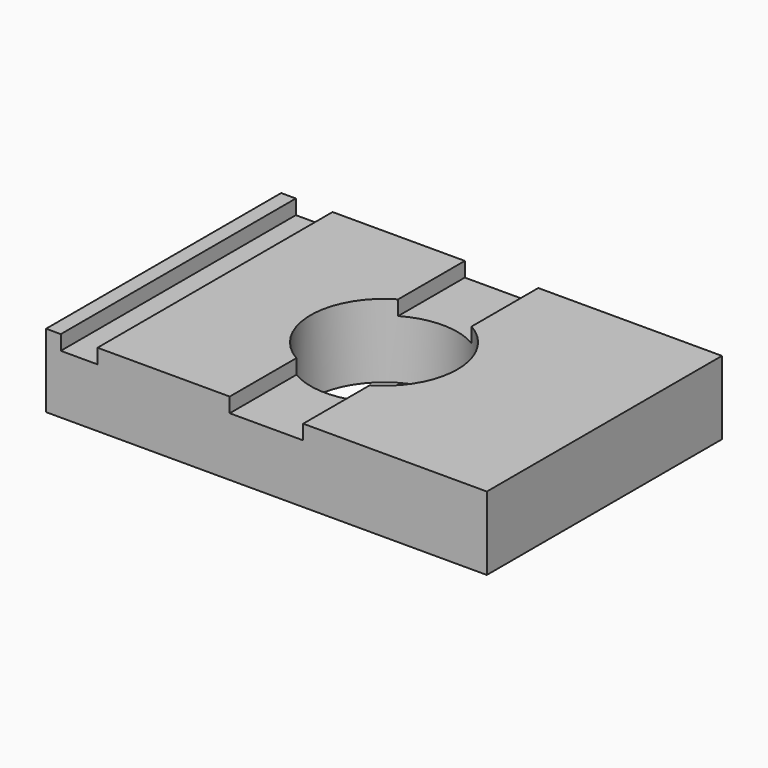
from build123d import *

# Parameters (mm, degrees)
F0_W     = 76.2
F0_H     = 50.8
F0_R     = 12.7
F1_DEPTH = 12.7
F2_W     = 6.35
F2_H     = 50.8
F3_DEPTH = 2.54


with BuildPart() as f1:
    # F0 (on Top) → F1 (new body)
    with BuildSketch(Plane.XY):
        Rectangle(F0_W, F0_H)
        Circle(F0_R, mode=Mode.SUBTRACT)
    extrude(amount=F1_DEPTH)

    # F2 (on face) → F3 (cut)
    with BuildSketch(Plane.XY.offset(12.7)):
        with Locations((-32.385, 0)):
            Rectangle(F2_W, F2_H)
        with BuildLine():
            Line((6.35, 25.4), (-6.35, 25.4))
            Line((-6.35, 25.4), (-6.35, 10.9985226281))
            ThreePointArc((-6.35, 10.9985226281), (0, 12.7), (6.35, 10.9985226281))
            Line((6.35, 10.9985226281), (6.35, 25.4))
        make_face()
        with BuildLine():
            Line((-6.35, -10.9985226281), (-6.35, -25.4))
            Line((-6.35, -25.4), (6.35, -25.4))
            Line((6.35, -25.4), (6.35, -10.9985226281))
            ThreePointArc((6.35, -10.9985226281), (0, -12.7), (-6.35, -10.9985226281))
        make_face()
    extrude(amount=-F3_DEPTH, mode=Mode.SUBTRACT)


solid = f1.part
